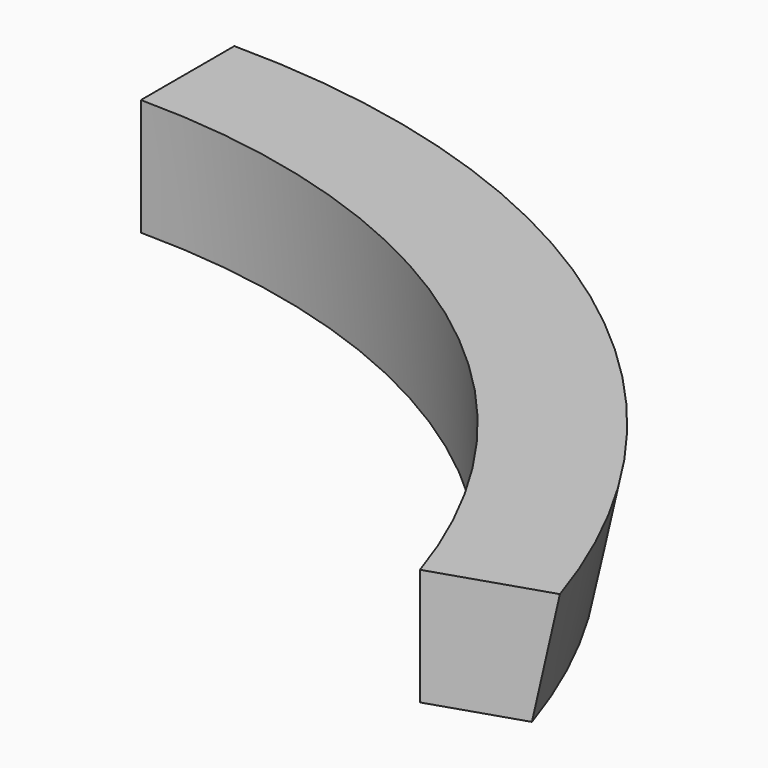
from build123d import *

# Parameters (mm, degrees)
F3_DEPTH = 2220


with BuildPart() as f1:
    # F0 (on Right) → F1 (revolve)
    with BuildSketch(Plane.YZ):
        Polygon((0, 500), (0, 0), (400, 0), (500, 500), align=None)
    revolve(axis=Axis((0, -3000, 250), (0, 0, 1)))

    # F2 (on Top) → F3 (cut)
    with BuildSketch(Plane.XY):
        with BuildLine():
            Line((0, -3000), (0, 0))
            Line((0, 0), (0, 914.893809))
            ThreePointArc((0, 914.893809), (-2768.24796, -5768.24796), (3914.893809, -3000))
            ThreePointArc((3914.893809, -3000), (3866.69497, -2387.575681), (3723.285268, -1790.231282))
            Line((3723.285268, -1790.231282), (0, -3000))
        make_face()
    extrude(amount=F3_DEPTH, mode=Mode.SUBTRACT)


solid = f1.part
